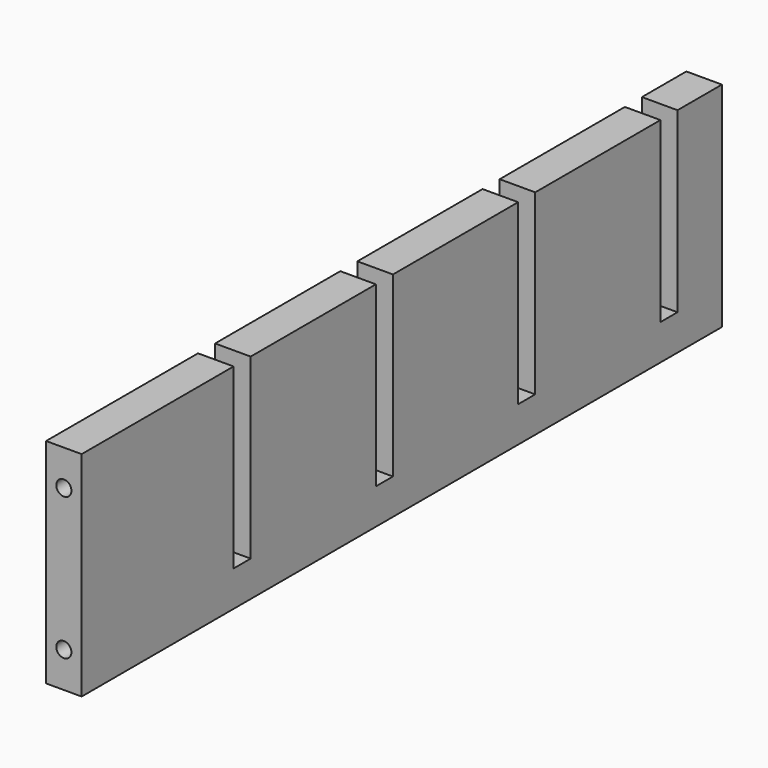
from build123d import *

# Parameters (mm, degrees)
F0_W     = 6.35
F0_H     = 142.875
F1_DEPTH = 38.1
F2_W     = 3.81
F2_H     = 31.75
F3_DEPTH = 6.351
F5_D     = 2.7051
F5_DEPTH = 15.0876
F5_TIP   = 0.8126940303
F8_D     = 2.7051
F8_DEPTH = 14.224
F8_TIP   = 0.8126940303
F9_D     = 2.7051
F9_DEPTH = 8.89
F9_TIP   = 0.8126940303


with BuildPart() as f1:
    # F0 (on Top) → F1 (new body)
    with BuildSketch(Plane.XY):
        Rectangle(F0_W, F0_H)
    extrude(amount=F1_DEPTH)

    # F2 (on face) → F3 (cut, through all)
    with BuildSketch(Plane.YZ.offset(3.175)):
        with Locations((59.62142, 22.225)):
            Rectangle(F2_W, F2_H)
        with Locations((27.87142, 22.225)):
            Rectangle(F2_W, F2_H)
        with Locations((-3.87858, 22.225)):
            Rectangle(F2_W, F2_H)
        with Locations((-35.62858, 22.225)):
            Rectangle(F2_W, F2_H)
    extrude(amount=-F3_DEPTH, mode=Mode.SUBTRACT)

    # F5
    with Locations(Plane(origin=(0, 0, 0), x_dir=(1, 0, 0), z_dir=(0, 0, -1))):
        with Locations((0, 46.0375), (0, -46.0375)):
            Hole(F5_D / 2, depth=F5_DEPTH)
            with Locations((0, 0, -(F5_DEPTH + F5_TIP / 2))):  # 118° drill point
                Cone(0, F5_D / 2, F5_TIP, mode=Mode.SUBTRACT)

    # F8
    with Locations(Plane.XZ.offset(71.4375)):
        with Locations((0, 31.75), (0, 6.35)):
            Hole(F8_D / 2, depth=F8_DEPTH)
            with Locations((0, 0, -(F8_DEPTH + F8_TIP / 2))):  # 118° drill point
                Cone(0, F8_D / 2, F8_TIP, mode=Mode.SUBTRACT)

    # F9
    with Locations(Plane(origin=(0, 71.4375, 0), x_dir=(-1, 0, 0), z_dir=(0, 1, 0))):
        with Locations((0, 31.75), (0, 6.35)):
            Hole(F9_D / 2, depth=F9_DEPTH)
            with Locations((0, 0, -(F9_DEPTH + F9_TIP / 2))):  # 118° drill point
                Cone(0, F9_D / 2, F9_TIP, mode=Mode.SUBTRACT)


solid = f1.part
